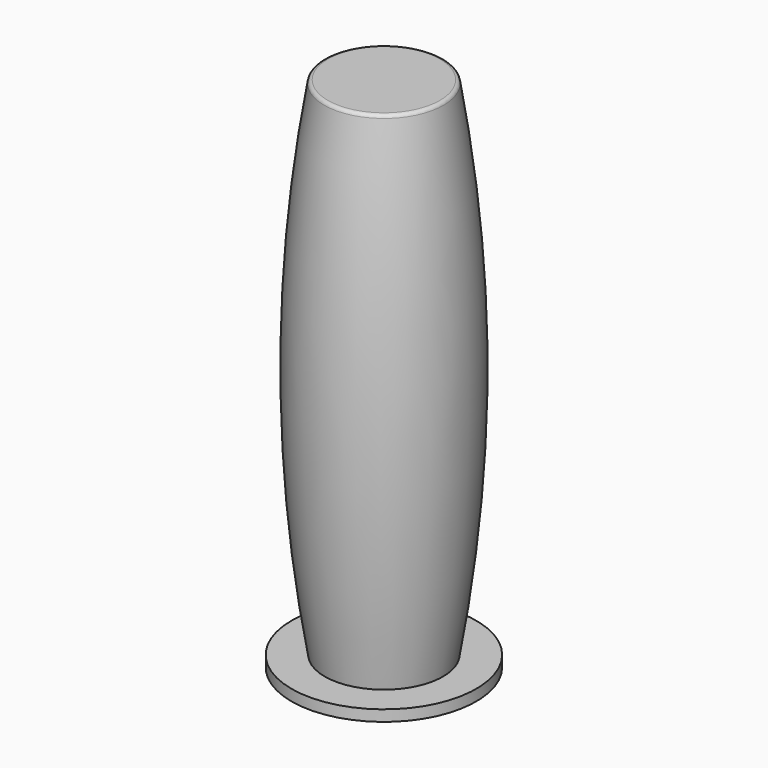
from build123d import *

# Parameters (mm, degrees)
F2_R = 1


with BuildPart() as f1:
    # F0 (on Front) → F1 (revolve)
    with BuildSketch(Plane.XZ):
        with BuildLine():
            Line((-25, 3), (-25, 0))
            Line((-25, 0), (-11, 0))
            Line((-11, 0), (-11, 139))
            Line((-11, 139), (0, 139))
            Line((0, 139), (0, 140))
            Line((0, 140), (-11, 140))
            Line((-11, 140), (-16, 140))
            ThreePointArc((-16, 140), (-21.9089572193, 71.5), (-16, 3))
            Line((-16, 3), (-25, 3))
        make_face()
    revolve(axis=Axis((0, 0, 34.8650403321), (0, 0, 1)))

    # F2
    f2_edges = [f1.edges().sort_by_distance(p)[0] for p in [
        (16, 0, 140),
    ]]
    fillet(f2_edges, radius=F2_R)


solid = f1.part
